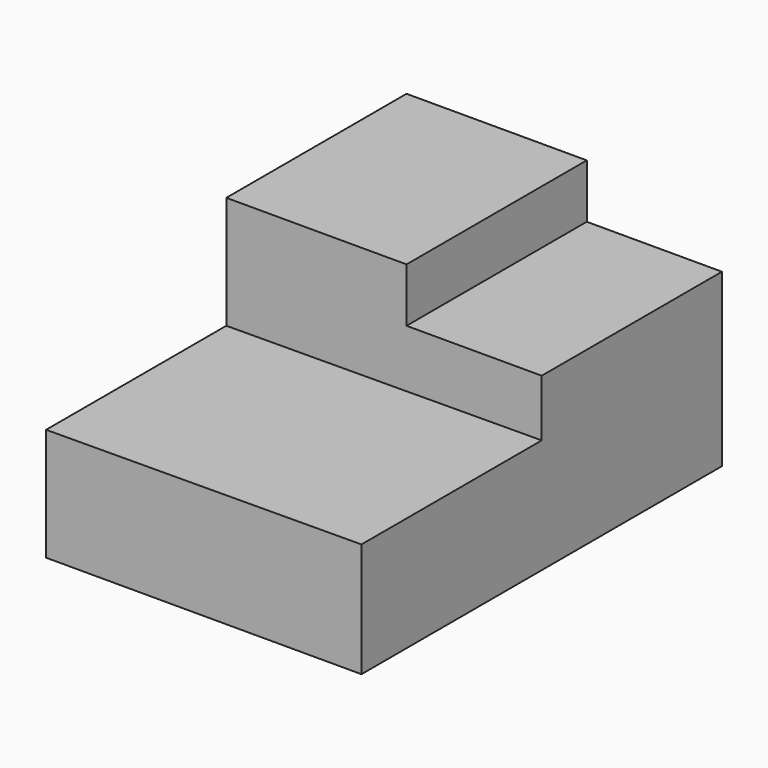
from build123d import *

# Parameters (mm, degrees)
F1_DEPTH = 1270
F3_DEPTH = 1778
F4_W     = 1270
F4_H     = 304.8
F5_DEPTH = 1016


with BuildPart() as f1:
    # F0 (on Front) → F1 (new body)
    with BuildSketch(Plane.XZ):
        Polygon((1702.274184, 687.159657), (-75.725816, 677.957611), (-75.725816, 42.957611), (1702.274184, 42.957611), align=None)
    extrude(amount=F1_DEPTH)

    # F2 (on face) → F3 (join)
    with BuildSketch(Plane.YZ.offset(1702.274184)):
        Polygon((0, 687.159657), (0, 42.957611), (1270, 42.957611), (1270, 1008.157611), (0, 1008.157611), align=None)
    extrude(amount=-F3_DEPTH)

    # F4 (on face) → F5 (join)
    with BuildSketch(Plane(origin=(-75.725816, 0, 0), x_dir=(0, -1, 0), z_dir=(-1, 0, 0))):
        with Locations((-635, 1160.557611)):
            Rectangle(F4_W, F4_H)
    extrude(amount=-F5_DEPTH)


solid = f1.part
